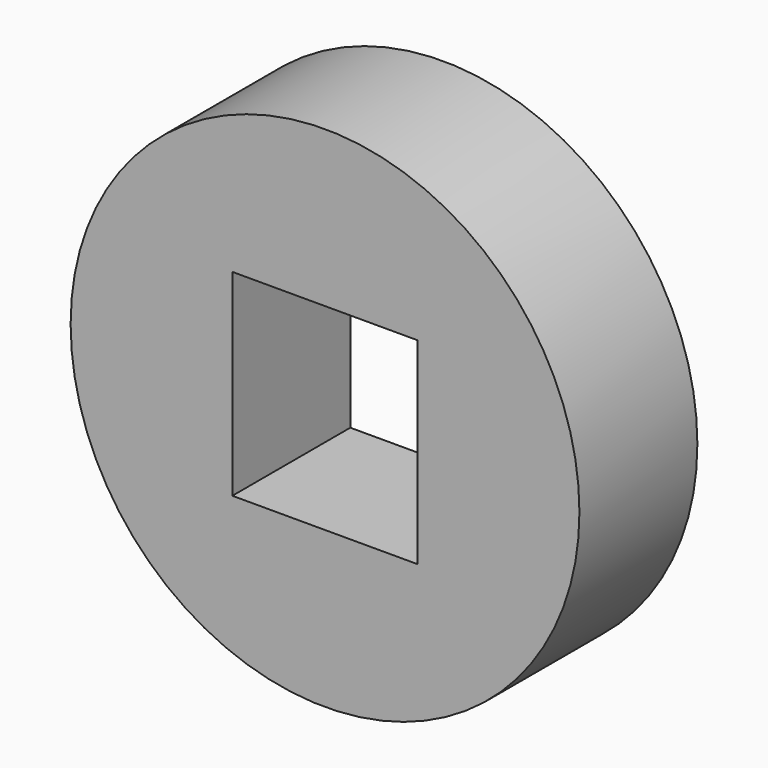
from build123d import *

# Parameters (mm, degrees)
F0_R     = 43.826874
F1_DEPTH = 25.4
F2_W     = 31.924735
F2_H     = 33.95685
F3_DEPTH = 25.4


with BuildPart() as f1:
    # F0 (on Front) → F1 (new body)
    with BuildSketch(Plane.XZ):
        with Locations((-22.304947, 20.578112)):
            Circle(F0_R)
    extrude(amount=F1_DEPTH)

    # F2 (on face) → F3 (cut)
    with BuildSketch(Plane.XZ.offset(25.4)):
        with Locations((-22.304946, 20.578112)):
            Rectangle(F2_W, F2_H)
    extrude(amount=-F3_DEPTH, mode=Mode.SUBTRACT)


solid = f1.part
